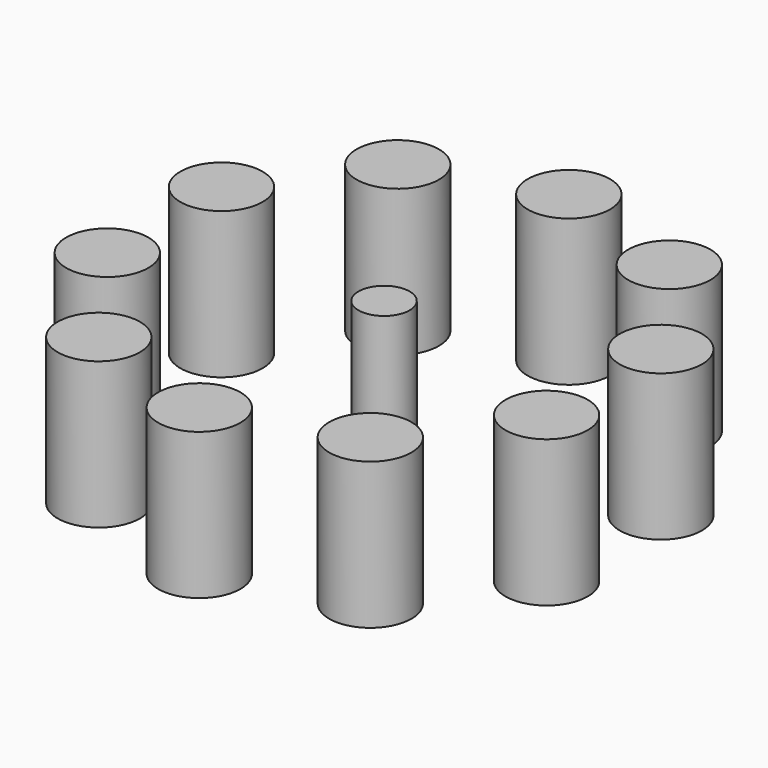
from build123d import *

# Parameters (mm, degrees)
F0_R     = 4.5
F0_R_2   = 2.796748
F1_DEPTH = 16


with BuildPart() as f1:
    # F0 (on Top) → F1 (new body)
    with BuildSketch(Plane.XY):
        with Locations((-14.841578, 20.427679)):
            Circle(F0_R)
        with Locations((-24.014177, 7.802679)):
            Circle(F0_R)
        with Locations((-24.014177, -7.802679)):
            Circle(F0_R)
        with Locations((-14.841578, -20.427679)):
            Circle(F0_R)
        with Locations((0, -25.25)):
            Circle(F0_R)
        with Locations((14.841578, -20.427679)):
            Circle(F0_R)
        with Locations((24.014177, -7.802679)):
            Circle(F0_R)
        with Locations((24.014177, 7.802679)):
            Circle(F0_R)
        with Locations((14.841578, 20.427679)):
            Circle(F0_R)
        with Locations((0, 25.25)):
            Circle(F0_R)
        Circle(F0_R_2)
    extrude(amount=F1_DEPTH)


solid = f1.part
